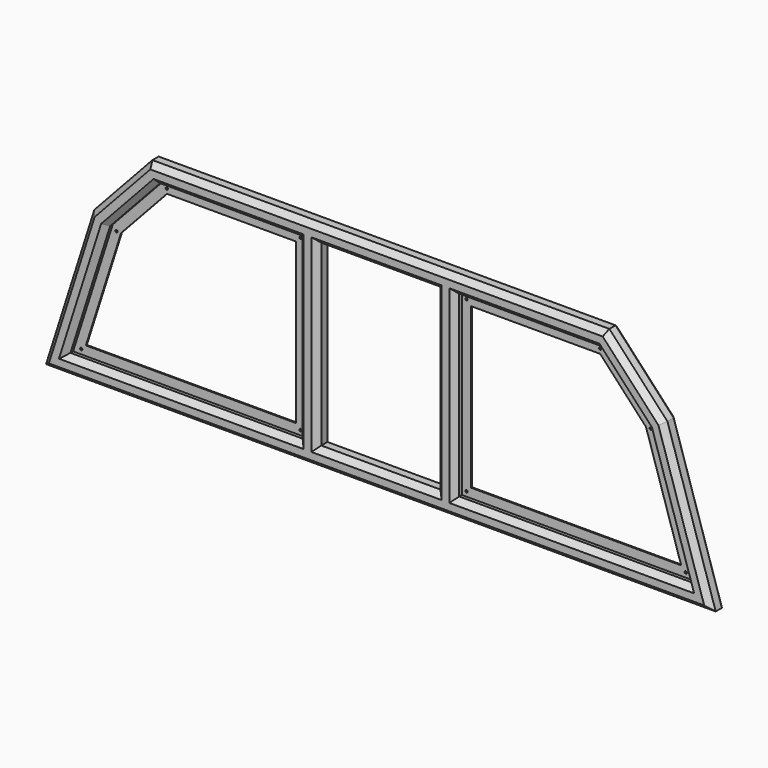
from build123d import *

# Parameters (mm, degrees)
F7_DEPTH      = 1.5875
F7_DEPTH_BACK = 1.5875
F8_R          = 3.175
F9_DEPTH      = 3.175


with BuildPart() as f2:
    # F2: sweep along a path in F0
    with BuildLine(Plane.XZ) as f2_path:
        Line((876.3, 0), (756.8278850907, 375.134780791))
        Line((756.8278850907, 375.134780791), (609.9778582309, 533.4))
        Line((609.9778582309, 533.4), (0, 533.4))
        Line((0, 533.4), (-609.9778582309, 533.4))
        Line((-609.9778582309, 533.4), (-756.8278850907, 375.134780791))
        Line((-756.8278850907, 375.134780791), (-876.3, 0))
        Line((-876.3, 0), (0, 0))
        Line((0, 0), (876.3, 0))
    # F1 (on Top) → F2 (sweep)
    with BuildSketch(Plane.XY):
        Polygon((886.8210244843, 25.4), (865.7789755157, 25.4), (850.9, 10.5210244843), (850.9, -10.5210244843), (865.7789755157, -25.4), (886.8210244843, -25.4), (901.7, -10.5210244843), (901.7, 10.5210244843), align=None)
    sweep(path=f2_path.line, transition=Transition.RIGHT)



with BuildPart() as f4:
    # F4: sweep along a path in F0
    with BuildLine(Plane.XZ) as f4_path:
        Line((187.325, 533.4), (187.325, 0))
    # F3 (on Top) → F4 (sweep)
    with BuildSketch(Plane.XY):
        Polygon((197.8460244843, 25.4), (176.8039755157, 25.4), (161.925, 10.5210244843), (161.925, -10.5210244843), (176.8039755157, -25.4), (197.8460244843, -25.4), (212.725, -10.5210244843), (212.725, 10.5210244843), align=None)
    sweep(path=f4_path.line)


with BuildPart() as f5:
    # F5: sweep along a path in F0
    with BuildLine(Plane.XZ) as f5_path:
        Line((-187.325, 533.4), (-187.325, 0))
    # F3 (on Top) → F5 (sweep)
    with BuildSketch(Plane.XY):
        Polygon((-176.8039755157, 25.4), (-197.8460244843, 25.4), (-212.725, 10.5210244843), (-212.725, -10.5210244843), (-197.8460244843, -25.4), (-176.8039755157, -25.4), (-161.925, -10.5210244843), (-161.925, 10.5210244843), align=None)
    sweep(path=f5_path.line)


with BuildPart() as f2_1:
    add(f2.part)

    add(f4.part)  # F7 merges F4

    add(f5.part)  # F7 merges F5
    # F6 (on Front) → F7 (join, two sides)
    with BuildSketch(Plane.XZ) as f7_sk:
        Polygon((-735.4080395805, 362.6373508831), (-843.1921216188, 24.202243922), (-212.725, 24.202243922), (-212.725, 509.197756078), (-599.4185938449, 509.197756078), align=None)
        Polygon((-808.445752084, 49.602243922), (-712.9281373981, 349.5214298683), (-588.3367571247, 483.797756078), (-238.125, 483.797756078), (-238.125, 49.602243922), align=None, mode=Mode.SUBTRACT)
        Polygon((212.725, 24.202243922), (843.1921216188, 24.202243922), (735.4080395805, 362.6373508831), (599.4185938449, 509.197756078), (212.725, 509.197756078), align=None)
        Polygon((712.9281373981, 349.5214298683), (808.445752084, 49.602243922), (238.125, 49.602243922), (238.125, 483.797756078), (588.3367571247, 483.797756078), align=None, mode=Mode.SUBTRACT)
    extrude(amount=F7_DEPTH)
    extrude(f7_sk.sketch, amount=-F7_DEPTH_BACK)

    # F8 (on face) → F9 (cut, through all)
    with BuildSketch(Plane.XZ.offset(1.5875)):
        with Locations((-225.425, 36.902243922)):
            Circle(F8_R)
        with Locations((-225.425, 496.489843922)):
            Circle(F8_R)
        with Locations((-588.645, 496.489843922)):
            Circle(F8_R)
        with Locations((-725.6281373981, 349.5214298683)):
            Circle(F8_R)
        with Locations((-821.1566, 36.902243922)):
            Circle(F8_R)
        with Locations((225.425, 36.902243922)):
            Circle(F8_R)
        with Locations((225.425, 496.489843922)):
            Circle(F8_R)
        with Locations((588.645, 496.489843922)):
            Circle(F8_R)
        with Locations((725.6281373981, 349.5214298683)):
            Circle(F8_R)
        with Locations((821.1566, 36.902243922)):
            Circle(F8_R)
    extrude(amount=-F9_DEPTH, mode=Mode.SUBTRACT)


solid = f2_1.part
